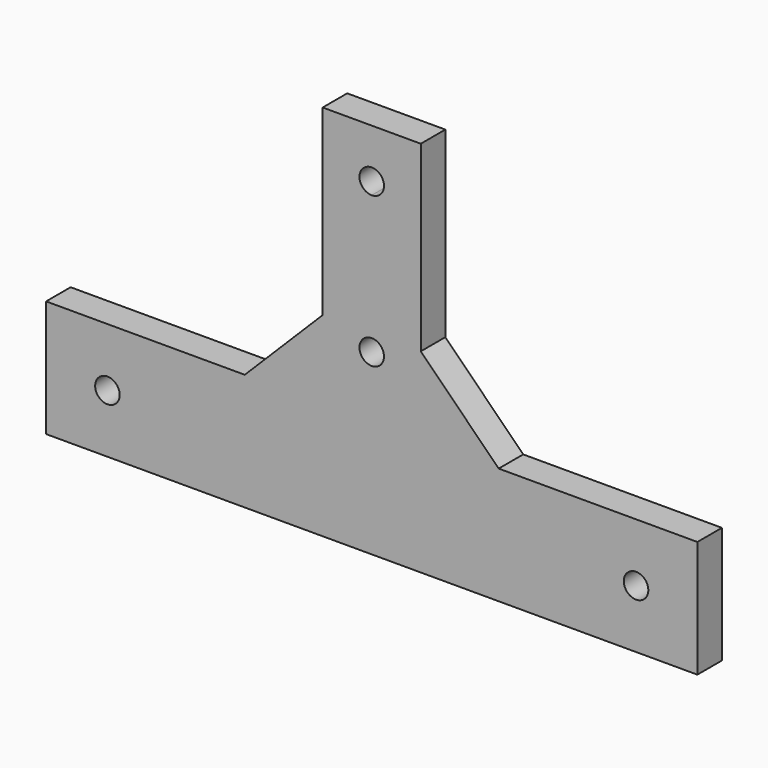
from build123d import *

# Parameters (mm, degrees)
F0_W     = 38.1
F0_H     = 19.05
F0_R     = 2
F0_W_2   = 30
F0_H_2   = 53.175
F1_DEPTH = 5
F2_SIZE  = 19.05
F4_DEPTH = 5.001
F5_DEPTH = 25.4
F6_SIZE  = 12.7


with BuildPart() as f1:
    # F0 (on Front) → F1 (new body)
    with BuildSketch(Plane.XZ):
        with Locations((34.05, 0)):
            Rectangle(F0_W, F0_H)
        with Locations((43.1, 0)):
            Circle(F0_R, mode=Mode.SUBTRACT)
        with Locations((0, 36.1125)):
            Rectangle(F0_W_2, F0_H_2)
        with Locations((0, 36.1125)):
            Rectangle(F0_W_2, F0_H_2)
        with Locations((-34.05, 0)):
            Rectangle(F0_W, F0_H)
        with Locations((-43.1, 0)):
            Circle(F0_R, mode=Mode.SUBTRACT)
        with Locations((-34.05, 0)):
            Rectangle(F0_W, F0_H)
        with Locations((-43.1, 0)):
            Circle(F0_R, mode=Mode.SUBTRACT)
        Rectangle(F0_W_2, F0_H)
        with Locations((34.05, 0)):
            Rectangle(F0_W, F0_H)
        with Locations((43.1, 0)):
            Circle(F0_R, mode=Mode.SUBTRACT)
    extrude(amount=F1_DEPTH)

    # F2
    f2_edges = [f1.edges().sort_by_distance(p)[0] for p in [
        (15, -2.5, 9.525),
        (-15, -2.5, 9.525),
    ]]
    chamfer(f2_edges, length=F2_SIZE)

    # F3 (on face) → F4 (cut, through all)
    with BuildSketch(Plane.XZ.offset(5)):
        Polygon((-8, 52.025), (8, 52.025), (8, 11.525), (8, 9.525), (34.05, 9.525), (15, 28.575), (15, 62.7), (-15, 62.7), (-15, 28.575), (-34.05, 9.525), (-8, 9.525), (-8, 11.525), align=None)
    extrude(amount=-F4_DEPTH, mode=Mode.SUBTRACT)

    # F3 (on face) → F5 (cut)
    with BuildSketch(Plane.XZ.offset(5)):
        with BuildLine():
            ThreePointArc((0, 42.025), (1.4142135624, 42.6107864376), (2, 44.025))
            ThreePointArc((2, 44.025), (-1.4142135624, 45.4392135624), (0, 42.025))
        make_face()
        with BuildLine():
            ThreePointArc((2, 19.525), (1.4142135624, 20.9392135624), (0, 21.525))
            ThreePointArc((0, 21.525), (-1.4142135624, 18.1107864376), (2, 19.525))
        make_face()
    extrude(amount=-F5_DEPTH, mode=Mode.SUBTRACT)

    # F6
    f6_edges = [f1.edges().sort_by_distance(p)[0] for p in [
        (8, -2.5, 9.525),
        (-8, -2.5, 9.525),
    ]]
    chamfer(f6_edges, length=F6_SIZE)


solid = f1.part
